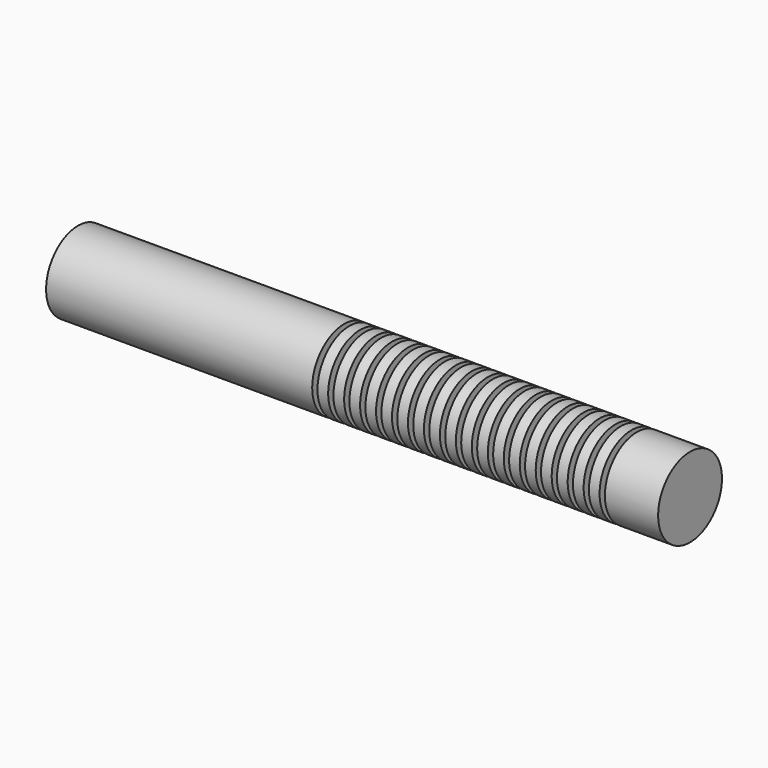
from build123d import *

# Parameters (mm, degrees)
F1_W     = 20
F1_H     = 57.5
F2_W     = 100
F2_H     = 75
F4_R     = 5
F5_DEPTH = 575
F6_DEPTH = 575


with BuildPart() as f3:
    # F0 (on Top) → F3 (revolve)
    with BuildSketch(Plane.XY):
        Polygon((-200, 0), (-500, 0), (-500, -75), (0, -75), (0, -17.5), (-200, -17.5), align=None)
    revolve(axis=Axis((-350, 0, 0), (-1, 0, 0)))


with BuildPart() as f3b:
    # F1 (on Top) → F3, piece 2 (revolve)
    with BuildSketch(Plane.XY):
        with Locations((140, -46.25)):
            Rectangle(F1_W, F1_H)
    revolve(axis=Axis((-350, 0, 0), (-1, 0, 0)))


with BuildPart() as f3c:
    # F1 (on Top) → F3, piece 3 (revolve)
    with BuildSketch(Plane.XY):
        with Locations((290, -46.25)):
            Rectangle(F1_W, F1_H)
    revolve(axis=Axis((-350, 0, 0), (-1, 0, 0)))


with BuildPart() as f3d:
    # F1 (on Top) → F3, piece 4 (revolve)
    with BuildSketch(Plane.XY):
        with Locations((110, -46.25)):
            Rectangle(F1_W, F1_H)
    revolve(axis=Axis((-350, 0, 0), (-1, 0, 0)))


with BuildPart() as f3e:
    # F1 (on Top) → F3, piece 5 (revolve)
    with BuildSketch(Plane.XY):
        with Locations((80, -46.25)):
            Rectangle(F1_W, F1_H)
    revolve(axis=Axis((-350, 0, 0), (-1, 0, 0)))


with BuildPart() as f3f:
    # F1 (on Top) → F3, piece 6 (revolve)
    with BuildSketch(Plane.XY):
        with Locations((320, -46.25)):
            Rectangle(F1_W, F1_H)
    revolve(axis=Axis((-350, 0, 0), (-1, 0, 0)))


with BuildPart() as f3g:
    # F1 (on Top) → F3, piece 7 (revolve)
    with BuildSketch(Plane.XY):
        with Locations((50, -46.25)):
            Rectangle(F1_W, F1_H)
    revolve(axis=Axis((-350, 0, 0), (-1, 0, 0)))


with BuildPart() as f3h:
    # F1 (on Top) → F3, piece 8 (revolve)
    with BuildSketch(Plane.XY):
        with Locations((260, -46.25)):
            Rectangle(F1_W, F1_H)
    revolve(axis=Axis((-350, 0, 0), (-1, 0, 0)))


with BuildPart() as f3i:
    # F1 (on Top) → F3, piece 9 (revolve)
    with BuildSketch(Plane.XY):
        with Locations((530, -46.25)):
            Rectangle(F1_W, F1_H)
    revolve(axis=Axis((-350, 0, 0), (-1, 0, 0)))


with BuildPart() as f3j:
    # F1 (on Top) → F3, piece 10 (revolve)
    with BuildSketch(Plane.XY):
        with Locations((500, -46.25)):
            Rectangle(F1_W, F1_H)
    revolve(axis=Axis((-350, 0, 0), (-1, 0, 0)))


with BuildPart() as f3k:
    # F1 (on Top) → F3, piece 11 (revolve)
    with BuildSketch(Plane.XY):
        with Locations((380, -46.25)):
            Rectangle(F1_W, F1_H)
    revolve(axis=Axis((-350, 0, 0), (-1, 0, 0)))


with BuildPart() as f3l:
    # F1 (on Top) → F3, piece 12 (revolve)
    with BuildSketch(Plane.XY):
        with Locations((170, -46.25)):
            Rectangle(F1_W, F1_H)
    revolve(axis=Axis((-350, 0, 0), (-1, 0, 0)))


with BuildPart() as f3m:
    # F1 (on Top) → F3, piece 13 (revolve)
    with BuildSketch(Plane.XY):
        with Locations((200, -46.25)):
            Rectangle(F1_W, F1_H)
    revolve(axis=Axis((-350, 0, 0), (-1, 0, 0)))


with BuildPart() as f3n:
    # F1 (on Top) → F3, piece 14 (revolve)
    with BuildSketch(Plane.XY):
        with Locations((350, -46.25)):
            Rectangle(F1_W, F1_H)
    revolve(axis=Axis((-350, 0, 0), (-1, 0, 0)))


with BuildPart() as f3o:
    # F1 (on Top) → F3, piece 15 (revolve)
    with BuildSketch(Plane.XY):
        with Locations((230, -46.25)):
            Rectangle(F1_W, F1_H)
    revolve(axis=Axis((-350, 0, 0), (-1, 0, 0)))


with BuildPart() as f3p:
    # F1 (on Top) → F3, piece 16 (revolve)
    with BuildSketch(Plane.XY):
        with Locations((20, -46.25)):
            Rectangle(F1_W, F1_H)
    revolve(axis=Axis((-350, 0, 0), (-1, 0, 0)))


with BuildPart() as f3q:
    # F1 (on Top) → F3, piece 17 (revolve)
    with BuildSketch(Plane.XY):
        with Locations((440, -46.25)):
            Rectangle(F1_W, F1_H)
    revolve(axis=Axis((-350, 0, 0), (-1, 0, 0)))


with BuildPart() as f3r:
    # F1 (on Top) → F3, piece 18 (revolve)
    with BuildSketch(Plane.XY):
        with Locations((410, -46.25)):
            Rectangle(F1_W, F1_H)
    revolve(axis=Axis((-350, 0, 0), (-1, 0, 0)))


with BuildPart() as f3s:
    # F2 (on Top) → F3, piece 19 (revolve)
    with BuildSketch(Plane.XY):
        with Locations((600, -37.5)):
            Rectangle(F2_W, F2_H)
    revolve(axis=Axis((-350, 0, 0), (-1, 0, 0)))


with BuildPart() as f3t:
    # F1 (on Top) → F3, piece 20 (revolve)
    with BuildSketch(Plane.XY):
        with Locations((470, -46.25)):
            Rectangle(F1_W, F1_H)
    revolve(axis=Axis((-350, 0, 0), (-1, 0, 0)))


with BuildPart() as f5_tool:
    # F4 (on Right) → F5 (new body, through all)
    with BuildSketch(Plane.YZ):
        with Locations((0, 50)):
            Circle(F4_R)
        with Locations((-43.3012701892, -25)):
            Circle(F4_R)
        with Locations((43.3012701892, -25)):
            Circle(F4_R)
    extrude(amount=F5_DEPTH)


with BuildPart() as f3b_1:
    add(f3b.part)

    # F5: cut by f5_tool
    add(f5_tool.part, mode=Mode.SUBTRACT)


with BuildPart() as f3c_1:
    add(f3c.part)

    # F5: cut by f5_tool
    add(f5_tool.part, mode=Mode.SUBTRACT)


with BuildPart() as f3d_1:
    add(f3d.part)

    # F5: cut by f5_tool
    add(f5_tool.part, mode=Mode.SUBTRACT)


with BuildPart() as f3e_1:
    add(f3e.part)

    # F5: cut by f5_tool
    add(f5_tool.part, mode=Mode.SUBTRACT)


with BuildPart() as f3f_1:
    add(f3f.part)

    # F5: cut by f5_tool
    add(f5_tool.part, mode=Mode.SUBTRACT)


with BuildPart() as f3g_1:
    add(f3g.part)

    # F5: cut by f5_tool
    add(f5_tool.part, mode=Mode.SUBTRACT)


with BuildPart() as f3h_1:
    add(f3h.part)

    # F5: cut by f5_tool
    add(f5_tool.part, mode=Mode.SUBTRACT)


with BuildPart() as f3i_1:
    add(f3i.part)

    # F5: cut by f5_tool
    add(f5_tool.part, mode=Mode.SUBTRACT)


with BuildPart() as f3j_1:
    add(f3j.part)

    # F5: cut by f5_tool
    add(f5_tool.part, mode=Mode.SUBTRACT)


with BuildPart() as f3k_1:
    add(f3k.part)

    # F5: cut by f5_tool
    add(f5_tool.part, mode=Mode.SUBTRACT)


with BuildPart() as f3l_1:
    add(f3l.part)

    # F5: cut by f5_tool
    add(f5_tool.part, mode=Mode.SUBTRACT)


with BuildPart() as f3m_1:
    add(f3m.part)

    # F5: cut by f5_tool
    add(f5_tool.part, mode=Mode.SUBTRACT)


with BuildPart() as f3n_1:
    add(f3n.part)

    # F5: cut by f5_tool
    add(f5_tool.part, mode=Mode.SUBTRACT)


with BuildPart() as f3o_1:
    add(f3o.part)

    # F5: cut by f5_tool
    add(f5_tool.part, mode=Mode.SUBTRACT)


with BuildPart() as f3p_1:
    add(f3p.part)

    # F5: cut by f5_tool
    add(f5_tool.part, mode=Mode.SUBTRACT)


with BuildPart() as f3q_1:
    add(f3q.part)

    # F5: cut by f5_tool
    add(f5_tool.part, mode=Mode.SUBTRACT)


with BuildPart() as f3r_1:
    add(f3r.part)

    # F5: cut by f5_tool
    add(f5_tool.part, mode=Mode.SUBTRACT)


with BuildPart() as f3s_1:
    add(f3s.part)

    # F5: cut by f5_tool
    add(f5_tool.part, mode=Mode.SUBTRACT)


with BuildPart() as f3t_1:
    add(f3t.part)

    # F5: cut by f5_tool
    add(f5_tool.part, mode=Mode.SUBTRACT)


with BuildPart() as f6:
    # F4 (on Right) → F6 (new body, through all)
    with BuildSketch(Plane.YZ):
        with Locations((0, 50)):
            Circle(F4_R)
    extrude(amount=F6_DEPTH)


with BuildPart() as f6b:
    # F4 (on Right) → F6, piece 2 (new body, through all)
    with BuildSketch(Plane.YZ):
        with Locations((-43.3012701892, -25)):
            Circle(F4_R)
    extrude(amount=F6_DEPTH)


with BuildPart() as f6c:
    # F4 (on Right) → F6, piece 3 (new body, through all)
    with BuildSketch(Plane.YZ):
        with Locations((43.3012701892, -25)):
            Circle(F4_R)
    extrude(amount=F6_DEPTH)


solid = Compound([f3.part, f3b_1.part, f3c_1.part, f3d_1.part, f3e_1.part, f3f_1.part, f3g_1.part, f3h_1.part, f3i_1.part, f3j_1.part, f3k_1.part, f3l_1.part, f3m_1.part, f3n_1.part, f3o_1.part, f3p_1.part, f3q_1.part, f3r_1.part, f3s_1.part, f3t_1.part, f6.part, f6b.part, f6c.part])
